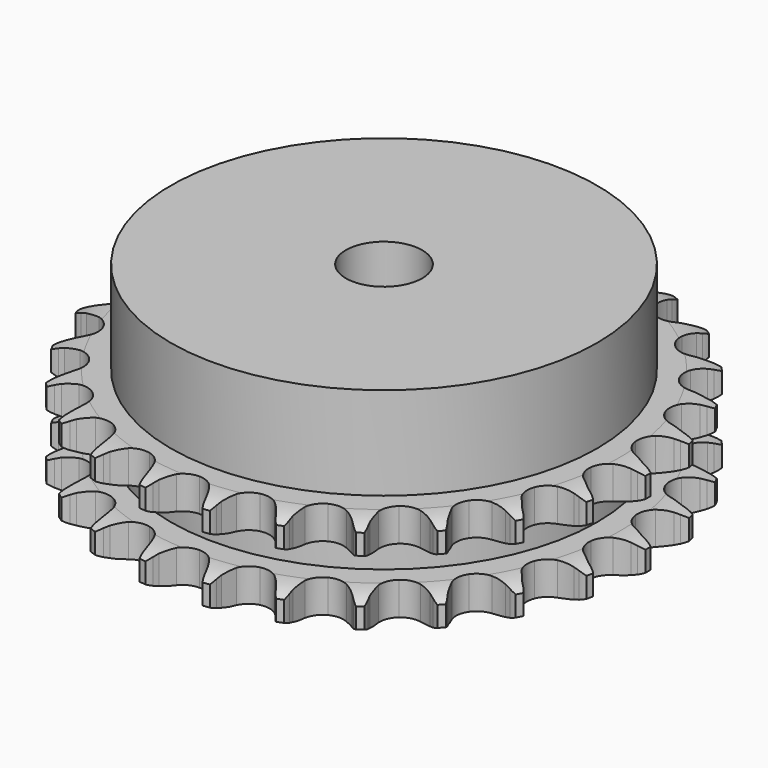
from build123d import *

# Parameters (mm, degrees)
PAD_DEPTH         = 15.4
SKETCH001_R       = 33.5
PAD001_DEPTH      = 30
SKETCH002_R       = 6
POCKET_DEPTH      = 0.001
POCKET_DEPTH_BACK = 30.001


with BuildPart() as part:
    # Sprocket → Pad (new body)
    with BuildSketch(Plane.XY):
        with BuildLine():
            ThreePointArc((-5.105702, 42.049237), (-4.468406, 41.247291), (-4.001262, 40.335676))
            Line((-4.001262, 40.335676), (-3.692267, 39.549699))
            ThreePointArc((-3.692267, 39.549699), (-3.199397, 38.512795), (-2.568301, 37.553728))
            ThreePointArc((-2.568301, 37.553728), (-1.432997, 36.617216), (0, 36.281819))
            ThreePointArc((0, 36.281819), (1.432997, 36.617216), (2.568301, 37.553728))
            ThreePointArc((2.568301, 37.553728), (3.199397, 38.512795), (3.692267, 39.549699))
            Line((3.692267, 39.549699), (4.001262, 40.335676))
            ThreePointArc((4.001262, 40.335676), (4.468406, 41.247291), (5.105702, 42.049237))
            ThreePointArc((5.105702, 42.049237), (5.53256, 41.118079), (5.767966, 40.121159))
            Line((5.767966, 40.121159), (5.879886, 39.284074))
            ThreePointArc((5.879886, 39.284074), (6.110287, 38.159349), (6.493524, 37.07712))
            ThreePointArc((6.493524, 37.07712), (7.371716, 35.896125), (8.682808, 35.227536))
            ThreePointArc((8.682808, 35.227536), (10.15443, 35.210247), (11.480867, 35.84785))
            Line((11.480867, 35.84785), (13.049839, 37.516839))
            ThreePointArc((13.049839, 37.516839), (13.285133, 37.86764), (13.537952, 38.20603))
            ThreePointArc((13.537952, 38.20603), (14.209685, 38.97936), (15.020381, 39.605489))
            ThreePointArc((15.020381, 39.605489), (15.211994, 38.599234), (15.201982, 37.574947))
            Line((15.201982, 37.574947), (15.110322, 36.735401))
            ThreePointArc((15.110322, 36.735401), (15.064863, 35.58822), (15.17797, 34.445724))
            ThreePointArc((15.17797, 34.445724), (15.748013, 33.088881), (16.861002, 32.125956))
            ThreePointArc((16.861002, 32.125956), (18.285725, 31.756987), (19.726206, 32.058626))
            Line((19.726206, 32.058626), (21.649001, 33.303637))
            ThreePointArc((21.649001, 33.303637), (21.961411, 33.587935), (22.287865, 33.855988))
            ThreePointArc((22.287865, 33.855988), (23.125149, 34.44609), (24.062129, 34.860013))
            ThreePointArc((24.062129, 34.860013), (24.007363, 33.837142), (23.752513, 32.845015))
            Line((23.752513, 32.845015), (23.4626, 32.0518))
            ThreePointArc((23.4626, 32.0518), (23.143924, 30.948833), (22.980327, 29.812468))
            ThreePointArc((22.980327, 29.812468), (23.209092, 28.358632), (24.059297, 27.157332))
            ThreePointArc((24.059297, 27.157332), (25.354319, 26.458127), (26.825129, 26.40627))
            Line((26.825129, 26.40627), (28.990003, 27.154949))
            ThreePointArc((28.990003, 27.154949), (29.361371, 27.356221), (29.742489, 27.538359))
            ThreePointArc((29.742489, 27.538359), (30.696663, 27.910939), (31.705475, 28.0886))
            ThreePointArc((31.705475, 28.0886), (31.40751, 27.108558), (30.922635, 26.20625))
            Line((30.922635, 26.20625), (30.451317, 25.505466))
            ThreePointArc((30.451317, 25.505466), (29.877944, 24.510813), (29.447151, 23.44662))
            ThreePointArc((29.447151, 23.44662), (29.321342, 21.980283), (29.859352, 20.610423))
            ThreePointArc((29.859352, 20.610423), (30.949413, 19.621616), (32.365074, 19.219279))
            Line((32.365074, 19.219279), (34.646211, 19.428114))
            ThreePointArc((34.646211, 19.428114), (35.054955, 19.534663), (35.468587, 19.620301))
            ThreePointArc((35.468587, 19.620301), (36.484199, 19.753705), (37.506213, 19.684779))
            ThreePointArc((37.506213, 19.684779), (36.982368, 18.804523), (36.295645, 18.044473))
            Line((36.295645, 18.044473), (35.670315, 17.476846))
            ThreePointArc((35.670315, 17.476846), (34.875567, 16.648313), (34.202614, 15.718139))
            ThreePointArc((34.202614, 15.718139), (33.729544, 14.324519), (33.924091, 12.86571))
            ThreePointArc((33.924091, 12.86571), (34.745839, 11.644768), (36.024078, 10.915332))
            Line((36.024078, 10.915332), (38.288907, 10.572187))
            ThreePointArc((38.288907, 10.572187), (38.711273, 10.577821), (39.13338, 10.561983))
            ThreePointArc((39.13338, 10.561983), (40.151405, 10.448458), (41.127227, 10.136951))
            ThreePointArc((41.127227, 10.136951), (40.407944, 9.407638), (39.559285, 8.834017))
            Line((39.559285, 8.834017), (38.816283, 8.432535))
            ThreePointArc((38.816283, 8.432535), (37.846349, 7.818274), (36.970345, 7.076177))
            ThreePointArc((36.970345, 7.076177), (36.177506, 5.836267), (36.017284, 4.37329))
            ThreePointArc((36.017284, 4.37329), (36.522964, 2.991169), (37.589494, 1.977026))
            Line((37.589494, 1.977026), (39.706391, 1.101843))
            ThreePointArc((39.706391, 1.101843), (40.117832, 1.006235), (40.523883, 0.88984))
            ThreePointArc((40.523883, 0.88984), (41.485158, 0.535985), (42.358076, 0))
            ThreePointArc((42.358076, 0), (41.485158, -0.535985), (40.523883, -0.88984))
            Line((40.523883, -0.88984), (39.706391, -1.101843))
            ThreePointArc((39.706391, -1.101843), (38.617638, -1.466135), (37.589494, -1.977026))
            ThreePointArc((37.589494, -1.977026), (36.522964, -2.991169), (36.017284, -4.37329))
            ThreePointArc((36.017284, -4.37329), (36.177506, -5.836267), (36.970345, -7.076177))
            Line((36.970345, -7.076177), (38.816283, -8.432535))
            ThreePointArc((38.816283, -8.432535), (39.192888, -8.62383), (39.559285, -8.834017))
            ThreePointArc((39.559285, -8.834017), (40.407944, -9.407638), (41.127227, -10.136951))
            ThreePointArc((41.127227, -10.136951), (40.151405, -10.448458), (39.13338, -10.561983))
            Line((39.13338, -10.561983), (38.288907, -10.572187))
            ThreePointArc((38.288907, -10.572187), (37.144611, -10.665337), (36.024078, -10.915332))
            ThreePointArc((36.024078, -10.915332), (34.745839, -11.644768), (33.924091, -12.86571))
            ThreePointArc((33.924091, -12.86571), (33.729544, -14.324519), (34.202614, -15.718139))
            Line((34.202614, -15.718139), (35.670315, -17.476846))
            ThreePointArc((35.670315, -17.476846), (35.990197, -17.752709), (36.295645, -18.044473))
            ThreePointArc((36.295645, -18.044473), (36.982368, -18.804523), (37.506213, -19.684779))
            ThreePointArc((37.506213, -19.684779), (36.484199, -19.753705), (35.468587, -19.620301))
            Line((35.468587, -19.620301), (34.646211, -19.428114))
            ThreePointArc((34.646211, -19.428114), (33.512873, -19.244709), (32.365074, -19.219279))
            ThreePointArc((32.365074, -19.219279), (30.949413, -19.621616), (29.859352, -20.610423))
            ThreePointArc((29.859352, -20.610423), (29.321342, -21.980283), (29.447151, -23.44662))
            Line((29.447151, -23.44662), (30.451317, -25.505466))
            ThreePointArc((30.451317, -25.505466), (30.695885, -25.849866), (30.922635, -26.20625))
            ThreePointArc((30.922635, -26.20625), (31.40751, -27.108558), (31.705475, -28.0886))
            ThreePointArc((31.705475, -28.0886), (30.696663, -27.910939), (29.742489, -27.538359))
            Line((29.742489, -27.538359), (28.990003, -27.154949))
            ThreePointArc((28.990003, -27.154949), (27.93349, -26.705648), (26.825129, -26.40627))
            ThreePointArc((26.825129, -26.40627), (25.354319, -26.458127), (24.059297, -27.157332))
            ThreePointArc((24.059297, -27.157332), (23.209092, -28.358632), (22.980327, -29.812468))
            Line((22.980327, -29.812468), (23.4626, -32.0518))
            ThreePointArc((23.4626, -32.0518), (23.617641, -32.444722), (23.752513, -32.845015))
            ThreePointArc((23.752513, -32.845015), (24.007363, -33.837142), (24.062129, -34.860013))
            ThreePointArc((24.062129, -34.860013), (23.125149, -34.44609), (22.287865, -33.855988))
            Line((22.287865, -33.855988), (21.649001, -33.303637))
            ThreePointArc((21.649001, -33.303637), (20.730713, -32.614552), (19.726206, -32.058626))
            ThreePointArc((19.726206, -32.058626), (18.285725, -31.756987), (16.861002, -32.125956))
            ThreePointArc((16.861002, -32.125956), (15.748013, -33.088881), (15.17797, -34.445724))
            Line((15.17797, -34.445724), (15.110322, -36.735401))
            ThreePointArc((15.110322, -36.735401), (15.166825, -37.154009), (15.201982, -37.574947))
            ThreePointArc((15.201982, -37.574947), (15.211994, -38.599234), (15.020381, -39.605489))
            ThreePointArc((15.020381, -39.605489), (14.209685, -38.97936), (13.537952, -38.20603))
            Line((13.537952, -38.20603), (13.049839, -37.516839))
            ThreePointArc((13.049839, -37.516839), (12.323143, -36.628017), (11.480867, -35.84785))
            ThreePointArc((11.480867, -35.84785), (10.15443, -35.210247), (8.682808, -35.227536))
            ThreePointArc((8.682808, -35.227536), (7.371716, -35.896125), (6.493524, -37.07712))
            Line((6.493524, -37.07712), (5.879886, -39.284074))
            ThreePointArc((5.879886, -39.284074), (5.834568, -39.704039), (5.767966, -40.121159))
            ThreePointArc((5.767966, -40.121159), (5.53256, -41.118079), (5.105702, -42.049237))
            ThreePointArc((5.105702, -42.049237), (4.468406, -41.247291), (4.001262, -40.335676))
            Line((4.001262, -40.335676), (3.692267, -39.549699))
            ThreePointArc((3.692267, -39.549699), (3.199397, -38.512795), (2.568301, -37.553728))
            ThreePointArc((2.568301, -37.553728), (1.432997, -36.617216), (0, -36.281819))
            ThreePointArc((0, -36.281819), (-1.432997, -36.617216), (-2.568301, -37.553728))
            Line((-2.568301, -37.553728), (-3.692267, -39.549699))
            ThreePointArc((-3.692267, -39.549699), (-3.836772, -39.946616), (-4.001262, -40.335676))
            ThreePointArc((-4.001262, -40.335676), (-4.468406, -41.247291), (-5.105702, -42.049237))
            ThreePointArc((-5.105702, -42.049237), (-5.53256, -41.118079), (-5.767966, -40.121159))
            Line((-5.767966, -40.121159), (-5.879886, -39.284074))
            ThreePointArc((-5.879886, -39.284074), (-6.110287, -38.159349), (-6.493524, -37.07712))
            ThreePointArc((-6.493524, -37.07712), (-7.371716, -35.896125), (-8.682808, -35.227536))
            ThreePointArc((-8.682808, -35.227536), (-10.15443, -35.210247), (-11.480867, -35.84785))
            Line((-11.480867, -35.84785), (-13.049839, -37.516839))
            ThreePointArc((-13.049839, -37.516839), (-13.285133, -37.86764), (-13.537952, -38.20603))
            ThreePointArc((-13.537952, -38.20603), (-14.209685, -38.97936), (-15.020381, -39.605489))
            ThreePointArc((-15.020381, -39.605489), (-15.211994, -38.599234), (-15.201982, -37.574947))
            Line((-15.201982, -37.574947), (-15.110322, -36.735401))
            ThreePointArc((-15.110322, -36.735401), (-15.064863, -35.58822), (-15.17797, -34.445724))
            ThreePointArc((-15.17797, -34.445724), (-15.748013, -33.088881), (-16.861002, -32.125956))
            ThreePointArc((-16.861002, -32.125956), (-18.285725, -31.756987), (-19.726206, -32.058626))
            Line((-19.726206, -32.058626), (-21.649001, -33.303637))
            ThreePointArc((-21.649001, -33.303637), (-21.961411, -33.587935), (-22.287865, -33.855988))
            ThreePointArc((-22.287865, -33.855988), (-23.125149, -34.44609), (-24.062129, -34.860013))
            ThreePointArc((-24.062129, -34.860013), (-24.007363, -33.837142), (-23.752513, -32.845015))
            Line((-23.752513, -32.845015), (-23.4626, -32.0518))
            ThreePointArc((-23.4626, -32.0518), (-23.143924, -30.948833), (-22.980327, -29.812468))
            ThreePointArc((-22.980327, -29.812468), (-23.209092, -28.358632), (-24.059297, -27.157332))
            ThreePointArc((-24.059297, -27.157332), (-25.354319, -26.458127), (-26.825129, -26.40627))
            Line((-26.825129, -26.40627), (-28.990003, -27.154949))
            ThreePointArc((-28.990003, -27.154949), (-29.361371, -27.356221), (-29.742489, -27.538359))
            ThreePointArc((-29.742489, -27.538359), (-30.696663, -27.910939), (-31.705475, -28.0886))
            ThreePointArc((-31.705475, -28.0886), (-31.40751, -27.108558), (-30.922635, -26.20625))
            Line((-30.922635, -26.20625), (-30.451317, -25.505466))
            ThreePointArc((-30.451317, -25.505466), (-29.877944, -24.510813), (-29.447151, -23.44662))
            ThreePointArc((-29.447151, -23.44662), (-29.321342, -21.980283), (-29.859352, -20.610423))
            ThreePointArc((-29.859352, -20.610423), (-30.949413, -19.621616), (-32.365074, -19.219279))
            Line((-32.365074, -19.219279), (-34.646211, -19.428114))
            ThreePointArc((-34.646211, -19.428114), (-35.054955, -19.534663), (-35.468587, -19.620301))
            ThreePointArc((-35.468587, -19.620301), (-36.484199, -19.753705), (-37.506213, -19.684779))
            ThreePointArc((-37.506213, -19.684779), (-36.982368, -18.804523), (-36.295645, -18.044473))
            Line((-36.295645, -18.044473), (-35.670315, -17.476846))
            ThreePointArc((-35.670315, -17.476846), (-34.875567, -16.648313), (-34.202614, -15.718139))
            ThreePointArc((-34.202614, -15.718139), (-33.729544, -14.324519), (-33.924091, -12.86571))
            ThreePointArc((-33.924091, -12.86571), (-34.745839, -11.644768), (-36.024078, -10.915332))
            Line((-36.024078, -10.915332), (-38.288907, -10.572187))
            ThreePointArc((-38.288907, -10.572187), (-38.711273, -10.577821), (-39.13338, -10.561983))
            ThreePointArc((-39.13338, -10.561983), (-40.151405, -10.448458), (-41.127227, -10.136951))
            ThreePointArc((-41.127227, -10.136951), (-40.407944, -9.407638), (-39.559285, -8.834017))
            Line((-39.559285, -8.834017), (-38.816283, -8.432535))
            ThreePointArc((-38.816283, -8.432535), (-37.846349, -7.818274), (-36.970345, -7.076177))
            ThreePointArc((-36.970345, -7.076177), (-36.177506, -5.836267), (-36.017284, -4.37329))
            ThreePointArc((-36.017284, -4.37329), (-36.522964, -2.991169), (-37.589494, -1.977026))
            Line((-37.589494, -1.977026), (-39.706391, -1.101843))
            ThreePointArc((-39.706391, -1.101843), (-40.117832, -1.006235), (-40.523883, -0.88984))
            ThreePointArc((-40.523883, -0.88984), (-41.485158, -0.535985), (-42.358076, 0))
            ThreePointArc((-42.358076, 0), (-41.485158, 0.535985), (-40.523883, 0.88984))
            Line((-40.523883, 0.88984), (-39.706391, 1.101843))
            ThreePointArc((-39.706391, 1.101843), (-38.617638, 1.466135), (-37.589494, 1.977026))
            ThreePointArc((-37.589494, 1.977026), (-36.522964, 2.991169), (-36.017284, 4.37329))
            ThreePointArc((-36.017284, 4.37329), (-36.177506, 5.836267), (-36.970345, 7.076177))
            Line((-36.970345, 7.076177), (-38.816283, 8.432535))
            ThreePointArc((-38.816283, 8.432535), (-39.192888, 8.62383), (-39.559285, 8.834017))
            ThreePointArc((-39.559285, 8.834017), (-40.407944, 9.407638), (-41.127227, 10.136951))
            ThreePointArc((-41.127227, 10.136951), (-40.151405, 10.448458), (-39.13338, 10.561983))
            Line((-39.13338, 10.561983), (-38.288907, 10.572187))
            ThreePointArc((-38.288907, 10.572187), (-37.144611, 10.665337), (-36.024078, 10.915332))
            ThreePointArc((-36.024078, 10.915332), (-34.745839, 11.644768), (-33.924091, 12.86571))
            ThreePointArc((-33.924091, 12.86571), (-33.729544, 14.324519), (-34.202614, 15.718139))
            Line((-34.202614, 15.718139), (-35.670315, 17.476846))
            ThreePointArc((-35.670315, 17.476846), (-35.990197, 17.752709), (-36.295645, 18.044473))
            ThreePointArc((-36.295645, 18.044473), (-36.982368, 18.804523), (-37.506213, 19.684779))
            ThreePointArc((-37.506213, 19.684779), (-36.484199, 19.753705), (-35.468587, 19.620301))
            Line((-35.468587, 19.620301), (-34.646211, 19.428114))
            ThreePointArc((-34.646211, 19.428114), (-33.512873, 19.244709), (-32.365074, 19.219279))
            ThreePointArc((-32.365074, 19.219279), (-30.949413, 19.621616), (-29.859352, 20.610423))
            ThreePointArc((-29.859352, 20.610423), (-29.321342, 21.980283), (-29.447151, 23.44662))
            Line((-29.447151, 23.44662), (-30.451317, 25.505466))
            ThreePointArc((-30.451317, 25.505466), (-30.695885, 25.849866), (-30.922635, 26.20625))
            ThreePointArc((-30.922635, 26.20625), (-31.40751, 27.108558), (-31.705475, 28.0886))
            ThreePointArc((-31.705475, 28.0886), (-30.696663, 27.910939), (-29.742489, 27.538359))
            Line((-29.742489, 27.538359), (-28.990003, 27.154949))
            ThreePointArc((-28.990003, 27.154949), (-27.93349, 26.705648), (-26.825129, 26.40627))
            ThreePointArc((-26.825129, 26.40627), (-25.354319, 26.458127), (-24.059297, 27.157332))
            ThreePointArc((-24.059297, 27.157332), (-23.209092, 28.358632), (-22.980327, 29.812468))
            Line((-22.980327, 29.812468), (-23.4626, 32.0518))
            ThreePointArc((-23.4626, 32.0518), (-23.617641, 32.444722), (-23.752513, 32.845015))
            ThreePointArc((-23.752513, 32.845015), (-24.007363, 33.837142), (-24.062129, 34.860013))
            ThreePointArc((-24.062129, 34.860013), (-23.125149, 34.44609), (-22.287865, 33.855988))
            Line((-22.287865, 33.855988), (-21.649001, 33.303637))
            ThreePointArc((-21.649001, 33.303637), (-20.730713, 32.614552), (-19.726206, 32.058626))
            ThreePointArc((-19.726206, 32.058626), (-18.285725, 31.756987), (-16.861002, 32.125956))
            ThreePointArc((-16.861002, 32.125956), (-15.748013, 33.088881), (-15.17797, 34.445724))
            Line((-15.17797, 34.445724), (-15.110322, 36.735401))
            ThreePointArc((-15.110322, 36.735401), (-15.166825, 37.154009), (-15.201982, 37.574947))
            ThreePointArc((-15.201982, 37.574947), (-15.211994, 38.599234), (-15.020381, 39.605489))
            ThreePointArc((-15.020381, 39.605489), (-14.209685, 38.97936), (-13.537952, 38.20603))
            Line((-13.537952, 38.20603), (-13.049839, 37.516839))
            ThreePointArc((-13.049839, 37.516839), (-12.323143, 36.628017), (-11.480867, 35.84785))
            ThreePointArc((-11.480867, 35.84785), (-10.15443, 35.210247), (-8.682808, 35.227536))
            ThreePointArc((-8.682808, 35.227536), (-7.371716, 35.896125), (-6.493524, 37.07712))
            Line((-6.493524, 37.07712), (-5.879886, 39.284074))
            ThreePointArc((-5.879886, 39.284074), (-5.834568, 39.704039), (-5.767966, 40.121159))
            ThreePointArc((-5.767966, 40.121159), (-5.53256, 41.118079), (-5.105702, 42.049237))
        make_face()
    extrude(amount=PAD_DEPTH)

    # Sketch → Groove (revolve, cut)
    with BuildSketch(Plane.XZ):
        with BuildLine():
            ThreePointArc((37.141101, 0), (39.377169, 0.253206), (41.5, 1))
            Line((41.5, 1), (41.5, 4.2))
            ThreePointArc((41.5, 4.2), (39.377169, 4.946794), (37.141101, 5.2))
            Line((33.5, 5.2), (37.141101, 5.2))
            Line((33.5, 10.2), (33.5, 5.2))
            Line((37.141101, 10.2), (33.5, 10.2))
            ThreePointArc((37.141101, 10.2), (39.377169, 10.453206), (41.5, 11.2))
            Line((41.5, 11.2), (41.5, 14.4))
            ThreePointArc((41.5, 14.4), (39.377169, 15.146794), (37.141101, 15.4))
            Line((37.141101, 15.4), (47.141101, 15.4))
            Line((47.141101, 15.4), (47.141101, 0))
            Line((37.141101, 0), (47.141101, 0))
        make_face()
    revolve(axis=Axis((0, 0, 0), (0, 0, 1)), mode=Mode.SUBTRACT)

    # Sketch001 → Pad001 (join)
    with BuildSketch(Plane.XY):
        Circle(SKETCH001_R)
    extrude(amount=PAD001_DEPTH)

    # Sketch002 → Pocket (cut, two sides)
    with BuildSketch(Plane.XY) as pocket_sk:
        Circle(SKETCH002_R)
    extrude(amount=-POCKET_DEPTH, mode=Mode.SUBTRACT)
    extrude(pocket_sk.sketch, amount=POCKET_DEPTH_BACK, mode=Mode.SUBTRACT)


solid = part.part
